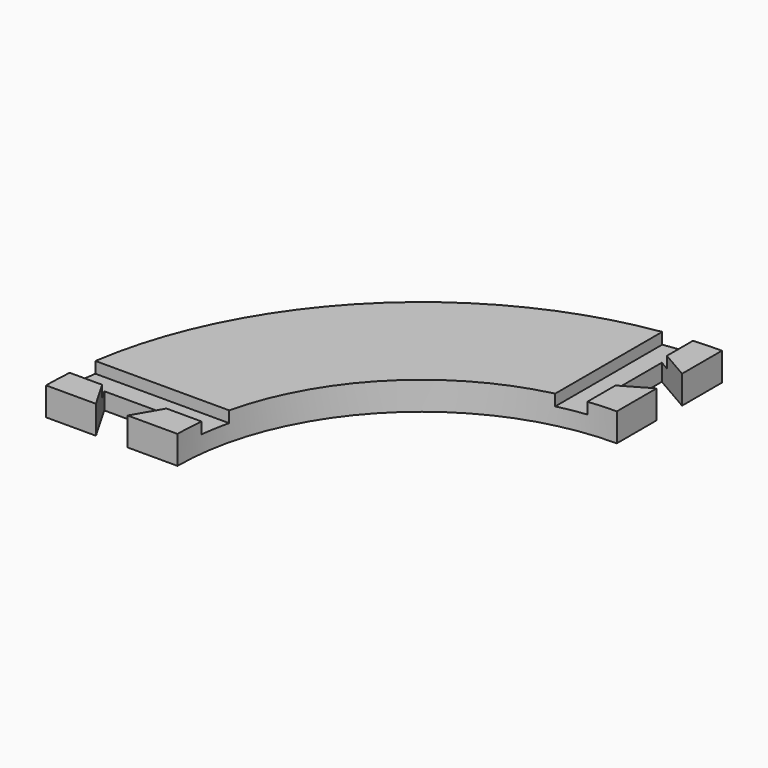
from build123d import *

# Parameters (mm, degrees)
F1_DEPTH = 19.05
F2_W     = 19.05
F2_H     = 7.62
F3_DEPTH = 254.001
F4_W     = 19.05
F4_H     = 7.62
F5_DEPTH = 254.001


with BuildPart() as f1:
    # F0 (on Top) → F1 (new body)
    with BuildSketch(Plane.XY):
        with BuildLine():
            ThreePointArc((0, 254), (-179.605122, 179.605122), (-254, 0))
            Line((-254, 0), (-220.285303, 0))
            Line((-220.285303, 0), (-234.95, 25.4))
            Line((-234.95, 25.4), (-184.15, 25.4))
            Line((-184.15, 25.4), (-198.814697, 0))
            Line((-198.814697, 0), (-165.1, 0))
            ThreePointArc((-165.1, 0), (-116.74333, 116.74333), (0, 165.1))
            Line((0, 165.1), (0, 198.814697))
            Line((0, 198.814697), (-25.4, 184.15))
            Line((-25.4, 184.15), (-25.4, 234.95))
            Line((-25.4, 234.95), (0, 220.285303))
            Line((0, 220.285303), (0, 254))
        make_face()
    extrude(amount=F1_DEPTH)

    # F2 (on Right) → F3 (cut, through all)
    with BuildSketch(Plane.YZ):
        with Locations((28.575, 15.24)):
            Rectangle(F2_W, F2_H)
    extrude(amount=-F3_DEPTH, mode=Mode.SUBTRACT)

    # F4 (on Front) → F5 (cut, through all)
    with BuildSketch(Plane.XZ):
        with Locations((-28.575, 15.24)):
            Rectangle(F4_W, F4_H)
    extrude(amount=-F5_DEPTH, mode=Mode.SUBTRACT)


solid = f1.part
